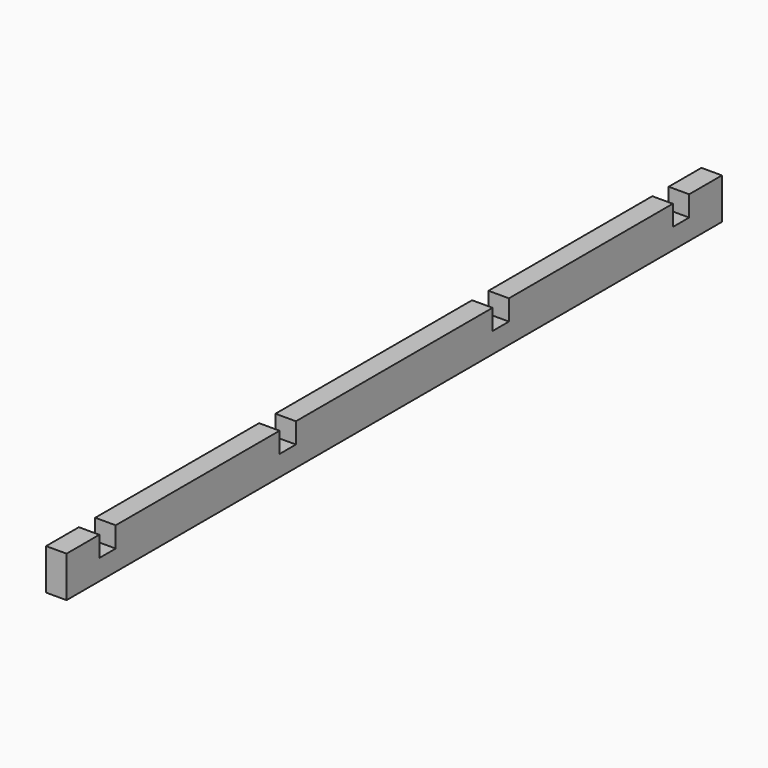
from build123d import *

# Parameters (mm, degrees)
F0_W     = 1016
F0_H     = 50.8
F1_DEPTH = 25.4
F2_W     = 25.4
F2_H     = 25.4
F3_DEPTH = 25.4
F4_W     = 25.4
F4_H     = 25.4
F5_DEPTH = 25.4


with BuildPart() as f1:
    # F0 (on Right) → F1 (new body)
    with BuildSketch(Plane.YZ):
        Rectangle(F0_W, F0_H)
    extrude(amount=F1_DEPTH)

    # F2 (on face) → F3 (cut)
    with BuildSketch(Plane.YZ.offset(25.4)):
        with Locations((-165.1, 12.7)):
            Rectangle(F2_W, F2_H)
        with Locations((165.1, 12.7)):
            Rectangle(F2_W, F2_H)
    extrude(amount=-F3_DEPTH, mode=Mode.SUBTRACT)

    # F4 (on face) → F5 (cut)
    with BuildSketch(Plane.YZ.offset(25.4)):
        with Locations((-444.5, 12.7)):
            Rectangle(F4_W, F4_H)
        with Locations((444.5, 12.7)):
            Rectangle(F4_W, F4_H)
    extrude(amount=-F5_DEPTH, mode=Mode.SUBTRACT)


solid = f1.part
